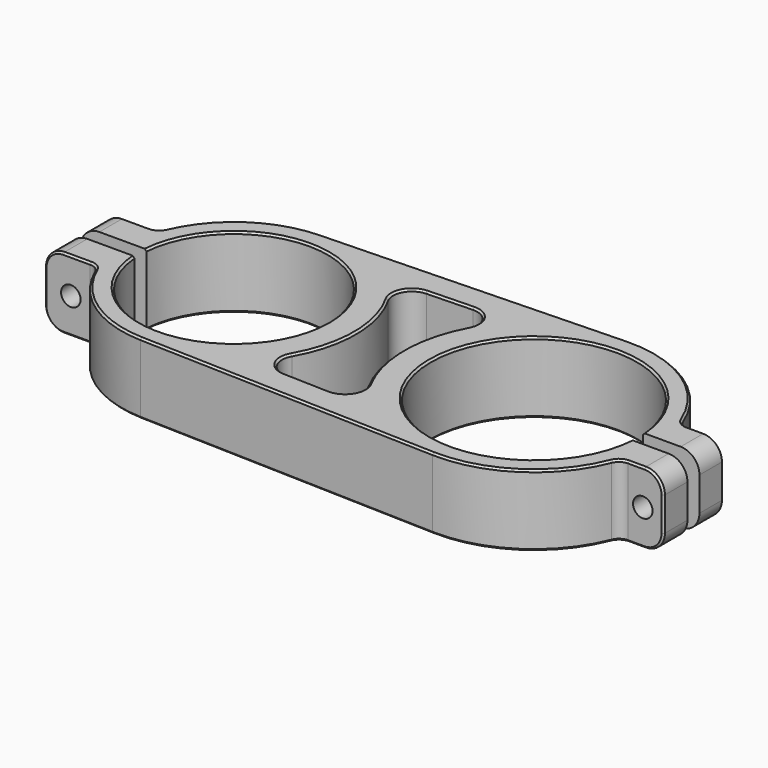
from build123d import *

# Parameters (mm, degrees)
F1_DEPTH = 19
F2_R     = 2.1
F3_DEPTH = 25
F4_R     = 2.6
F5_DEPTH = 10
F6_R     = 2.6
F7_DEPTH = 10
F8_R     = 5
F9_SIZE  = 0.5
F10_SIZE = 0.5
F11_R    = 3
F12_SIZE = 0.5


with BuildPart() as f1:
    # F0 (on Top) → F1 (new body)
    with BuildSketch(Plane.XY):
        with BuildLine():
            ThreePointArc((-64.919872, 2), (-15, 0), (-64.919872, -2))
            Line((-64.919872, -2), (-82.5, -2))
            Line((-82.5, -2), (-82.5, -10))
            Line((-82.5, -10), (-68.284271, -10))
            ThreePointArc((-68.284271, -10), (-57.701173, -24.22124), (-40.9375, -29.985348))
            Line((-40.9375, -29.985348), (38.984375, -32.484127))
            ThreePointArc((38.984375, -32.484127), (58.708317, -26.575343), (70.923292, -10))
            Line((70.923292, -10), (82.5, -10))
            Line((82.5, -10), (82.5, -2))
            Line((82.5, -2), (67.427176, -2))
            ThreePointArc((67.427176, -2), (12.5, 0), (67.427176, 2))
            Line((67.427176, 2), (82.5, 2))
            Line((82.5, 2), (82.5, 10))
            Line((82.5, 10), (70.923292, 10))
            ThreePointArc((70.923292, 10), (58.708317, 26.575343), (38.984375, 32.484127))
            Line((38.984375, 32.484127), (-40.9375, 29.985348))
            ThreePointArc((-40.9375, 29.985348), (-57.701173, 24.22124), (-68.284271, 10))
            Line((-68.284271, 10), (-82.5, 10))
            Line((-82.5, 10), (-82.5, 2))
            Line((-82.5, 2), (-64.919872, 2))
        make_face()
        with BuildLine():
            ThreePointArc((-7.553076, -23.525456), (-11.757166, -20.974822), (-11.743915, -16.057512))
            ThreePointArc((-11.743915, -16.057512), (-7.5, 0), (-11.743915, 16.057512))
            ThreePointArc((-11.743915, 16.057512), (-11.757166, 20.974822), (-7.553076, 23.525456))
            Line((-7.553076, 23.525456), (4.594653, 23.905258))
            ThreePointArc((4.594653, 23.905258), (9.00079, 21.541796), (9.15704, 16.544238))
            ThreePointArc((9.15704, 16.544238), (5, 0), (9.15704, -16.544238))
            ThreePointArc((9.15704, -16.544238), (9.00079, -21.541796), (4.594653, -23.905258))
            Line((4.594653, -23.905258), (-7.553076, -23.525456))
        make_face(mode=Mode.SUBTRACT)
    extrude(amount=F1_DEPTH)

    # F2 (on face) → F3 (cut)
    with BuildSketch(Plane.XZ.offset(10)):
        with Locations((-75.5, 9.5)):
            Circle(F2_R)
        with Locations((77, 9.5)):
            Circle(F2_R)
    extrude(amount=-F3_DEPTH, mode=Mode.SUBTRACT)

    # F4 (on face) → F5 (cut)
    with BuildSketch(Plane.XZ.offset(10)):
        with Locations((-75.5, 9.5)):
            Circle(F4_R)
    extrude(amount=-F5_DEPTH, mode=Mode.SUBTRACT)

    # F6 (on face) → F7 (cut)
    with BuildSketch(Plane.XZ.offset(10)):
        with Locations((77, 9.5)):
            Circle(F6_R)
    extrude(amount=-F7_DEPTH, mode=Mode.SUBTRACT)

    # F8
    f8_edges = [f1.edges().sort_by_distance(p)[0] for p in [
        (82.5, 6, 19),
        (82.5, -6, 19),
        (82.5, 6, 0),
        (82.5, -6, 0),
        (-82.5, -6, 0),
        (-82.5, -6, 19),
        (-82.5, 6, 19),
        (-82.5, 6, 0),
    ]]
    fillet(f8_edges, radius=F8_R)

    # F9
    f9_edges = [f1.edges().sort_by_distance(p)[0] for p in [
        (-15, 0, 0),
        (12.5, 0, 0),
        (12.5, 0, 19),
        (-15, 0, 19),
    ]]
    chamfer(f9_edges, length=F9_SIZE)

    # F10
    f10_edges = [f1.edges().sort_by_distance(p)[0] for p in [
        (-1.479211, 23.715357, 19),
        (5, 0, 0),
    ]]
    chamfer(f10_edges, length=F10_SIZE)

    # F11
    f11_edges = [f1.edges().sort_by_distance(p)[0] for p in [
        (-68.284271, 10, 9.5),
        (-68.284271, -10, 9.5),
        (70.923292, -10, 9.5),
        (70.923292, 10, 9.5),
    ]]
    fillet(f11_edges, radius=F11_R)

    # F12
    f12_edges = [f1.edges().sort_by_distance(p)[0] for p in [
        (57.873558, 27.143801, 19),
        (57.873558, -27.143801, 19),
    ]]
    chamfer(f12_edges, length=F12_SIZE)


solid = f1.part
